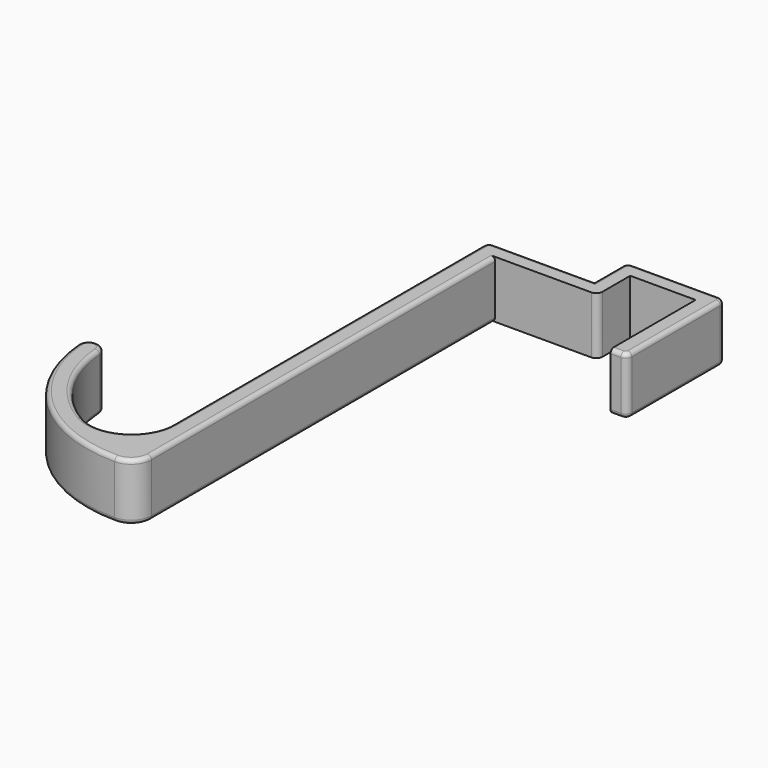
from build123d import *

# Parameters (mm, degrees)
F1_DEPTH = 14
F2_R     = 1


with BuildPart() as f1:
    # F0 (on Top) → F1 (new body)
    with BuildSketch(Plane.XY):
        with BuildLine():
            ThreePointArc((43.5, -16), (44.56066, -15.56066), (45, -14.5))
            Line((45, -14.5), (45, 12.5))
            ThreePointArc((45, 12.5), (44.56066, 13.56066), (43.5, 14))
            Line((43.5, 14), (22.5, 14))
            ThreePointArc((22.5, 14), (21.43934, 13.56066), (21, 12.5))
            Line((21, 12.5), (21, 4))
            Line((21, 4), (-3.5, 4))
            ThreePointArc((-3.5, 4), (-4.56066, 3.56066), (-5, 2.5))
            Line((-5, 2.5), (-5, -92.320508))
            ThreePointArc((-5, -92.320508), (-10, -100.980762), (-20, -100.980762))
            ThreePointArc((-20, -100.980762), (-30.384159, -90.988886), (-34.911111, -77.307692))
            ThreePointArc((-34.911111, -77.307692), (-35.705288, -75.665502), (-37.403703, -75))
            ThreePointArc((-37.403703, -75), (-39.238202, -75.801584), (-39.896296, -77.692308))
            ThreePointArc((-39.896296, -77.692308), (-28.777818, -100.682978), (-5, -110))
            ThreePointArc((-5, -110), (-1.464466, -108.535534), (0, -105))
            Line((0, -105), (0, 0))
            Line((0, 0), (23.5, 0))
            ThreePointArc((23.5, 0), (24.56066, 0.43934), (25, 1.5))
            Line((25, 1.5), (25, 10))
            Line((25, 10), (41, 10))
            Line((41, 10), (41, -16))
            Line((41, -16), (43.5, -16))
        make_face()
    extrude(amount=F1_DEPTH)

    # F2
    f2_edges = [f1.edges().sort_by_distance(p)[0] for p in [
        (45, -1, 14),
        (44.56066, 13.56066, 14),
        (33, 14, 14),
        (8.75, 4, 14),
        (-5, -44.910254, 0),
        (21, 8.25, 0),
    ]]
    fillet(f2_edges, radius=F2_R)


solid = f1.part
